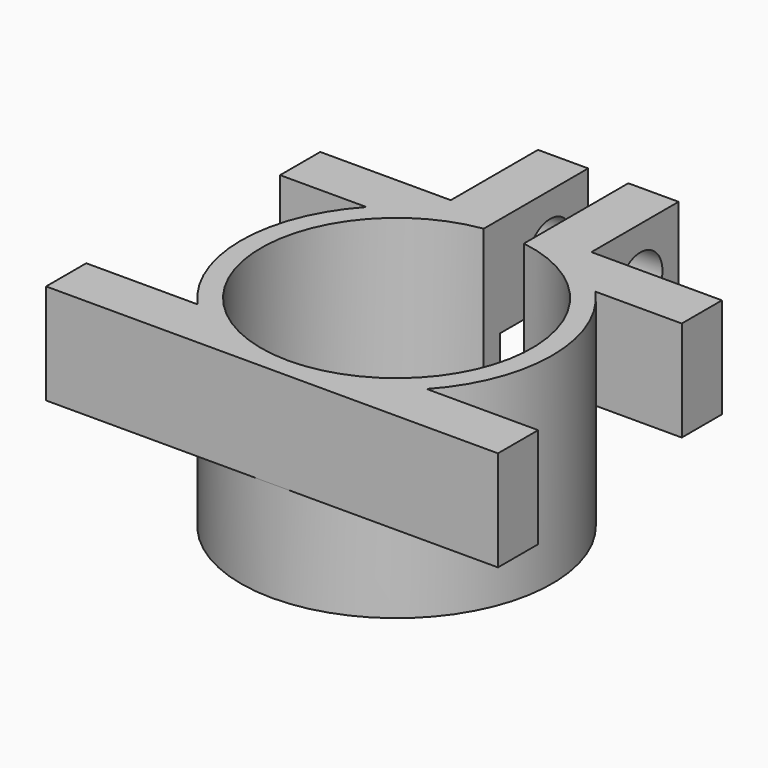
from build123d import *

# Parameters (mm, degrees)
F0_R     = 15.5
F0_R_2   = 13.5
F1_DEPTH = 20
F2_W     = 5
F2_H     = 10.8510299228
F3_DEPTH = 10
F5_DEPTH = 25
F6_R     = 2.75
F7_DEPTH = 15


with BuildPart() as f1:
    # F0 (on Top) → F1 (new body)
    with BuildSketch(Plane.XY):
        with Locations((-43.3026812971, 10.8993155882)):
            Circle(F0_R)
        with Locations((-43.3026812971, 10.8993155882)):
            Circle(F0_R_2, mode=Mode.SUBTRACT)
    extrude(amount=F1_DEPTH)

    # F2 (on face) → F3 (join)
    with BuildSketch(Plane.XY.offset(20)):
        with Locations((-47.8026812971, 31.8248305496)):
            Rectangle(F2_W, F2_H)
        with Locations((-38.8026812971, 31.8248305496)):
            Rectangle(F2_W, F2_H)
        with BuildLine():
            Line((-50.3026812971, 24.7286322741), (-50.3026812971, 26.3993155882))
            Line((-50.3026812971, 26.3993155882), (-63.3026812971, 26.3993155882))
            Line((-63.3026812971, 26.3993155882), (-63.3026812971, 21.3993155882))
            Line((-63.3026812971, 21.3993155882), (-54.7044355481, 21.3993155882))
            ThreePointArc((-54.7044355481, 21.3993155882), (-52.6529340892, 23.2614664012), (-50.3026812971, 24.7286322741))
        make_face()
        with BuildLine():
            Line((-23.3026812971, 26.3993155882), (-36.3026812971, 26.3993155882))
            Line((-36.3026812971, 26.3993155882), (-36.3026812971, 24.7286322741))
            ThreePointArc((-36.3026812971, 24.7286322741), (-33.9524285049, 23.2614664012), (-31.9009270461, 21.3993155882))
            Line((-31.9009270461, 21.3993155882), (-23.3026812971, 21.3993155882))
            Line((-23.3026812971, 21.3993155882), (-23.3026812971, 26.3993155882))
        make_face()
        with BuildLine():
            Line((-45.3026812971, 26.2697417371), (-45.3026812971, 26.3993155882))
            Line((-45.3026812971, 26.3993155882), (-50.3026812971, 26.3993155882))
            Line((-50.3026812971, 26.3993155882), (-50.3026812971, 24.7286322741))
            ThreePointArc((-50.3026812971, 24.7286322741), (-47.8681773921, 25.711683576), (-45.3026812971, 26.2697417371))
        make_face()
        with BuildLine():
            Line((-36.3026812971, 26.3993155882), (-41.3026812971, 26.3993155882))
            Line((-41.3026812971, 26.3993155882), (-41.3026812971, 26.2697417371))
            ThreePointArc((-41.3026812971, 26.2697417371), (-38.737185202, 25.711683576), (-36.3026812971, 24.7286322741))
            Line((-36.3026812971, 24.7286322741), (-36.3026812971, 26.3993155882))
        make_face()
        with BuildLine():
            ThreePointArc((-43.3026812971, -4.6006844118), (-49.5276310961, -3.2957539784), (-54.7044355481, 0.3993155882))
            Line((-54.7044355481, 0.3993155882), (-65.8026812971, 0.3993155882))
            Line((-65.8026812971, 0.3993155882), (-65.8026812971, -4.6006844118))
            Line((-65.8026812971, -4.6006844118), (-43.3026812971, -4.6006844118))
        make_face()
        with BuildLine():
            ThreePointArc((-31.9009270461, 0.3993155882), (-37.0777314981, -3.2957539784), (-43.3026812971, -4.6006844118))
            Line((-43.3026812971, -4.6006844118), (-20.8026812971, -4.6006844118))
            Line((-20.8026812971, -4.6006844118), (-20.8026812971, 0.3993155882))
            Line((-20.8026812971, 0.3993155882), (-31.9009270461, 0.3993155882))
        make_face()
    extrude(amount=-F3_DEPTH)

    # F4 (on face) → F5 (cut)
    with BuildSketch(Plane.XY.offset(20)):
        with BuildLine():
            Line((-41.3026812971, 27.4977236986), (-45.3026812971, 27.4977236986))
            Line((-45.3026812971, 27.4977236986), (-45.3026812971, 26.2697417371))
            ThreePointArc((-45.3026812971, 26.2697417371), (-43.3026812971, 26.3993155882), (-41.3026812971, 26.2697417371))
            Line((-41.3026812971, 26.2697417371), (-41.3026812971, 27.4977236986))
        make_face()
        with BuildLine():
            ThreePointArc((-41.3026812971, 26.2697417371), (-43.3026812971, 26.3993155882), (-45.3026812971, 26.2697417371))
            Line((-45.3026812971, 26.2697417371), (-45.3026812971, 24.250345511))
            ThreePointArc((-45.3026812971, 24.250345511), (-43.3026812971, 24.3993155882), (-41.3026812971, 24.250345511))
            Line((-41.3026812971, 24.250345511), (-41.3026812971, 26.2697417371))
        make_face()
    extrude(amount=-F5_DEPTH, mode=Mode.SUBTRACT)

    # F6 (on face) → F7 (cut)
    with BuildSketch(Plane(origin=(-50.3026812971, 0, 0), x_dir=(0, -1, 0), z_dir=(-1, 0, 0))):
        with Locations((-32.500345511, 14.75)):
            Circle(F6_R)
    extrude(amount=-F7_DEPTH, mode=Mode.SUBTRACT)


solid = f1.part
